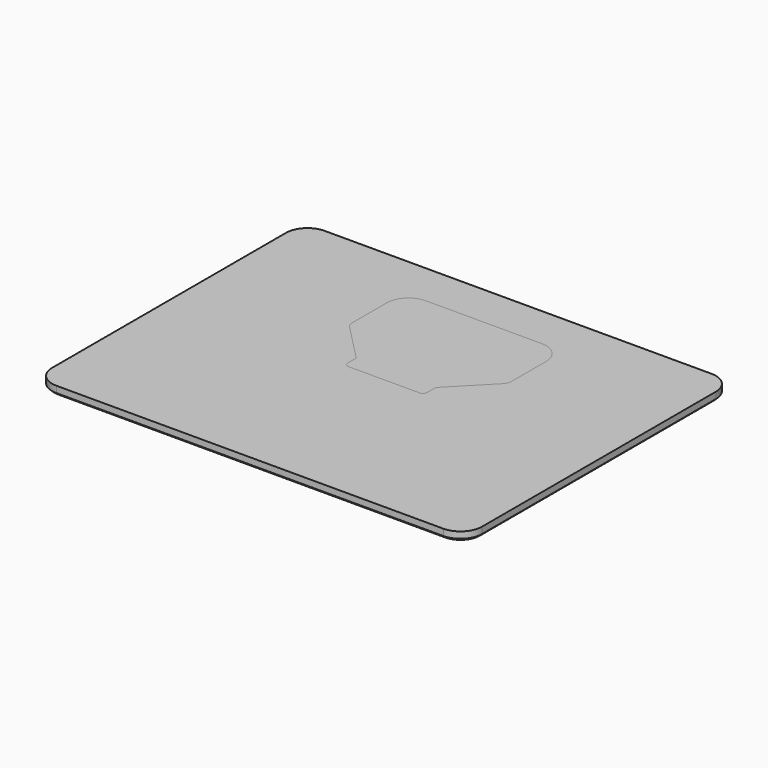
from build123d import *

# Parameters (mm, degrees)
SKETCH_W        = 100
SKETCH_H        = 78
PAD_DEPTH       = 2
FILLET_R        = 5
CHAMFER_SIZE    = 0.5
PAD001_DEPTH    = 2
FILLET001_R     = 1
CHAMFER001_SIZE = 0.5


with BuildPart() as base:
    # Sketch → Pad (new body)
    with BuildSketch(Plane.XY):
        Rectangle(SKETCH_W, SKETCH_H)
    extrude(amount=PAD_DEPTH)

    # Fillet
    fillet_edges = [base.edges().sort_by_distance(p)[0] for p in [
        (50, 39, 1),
        (50, -39, 1),
        (-50, -39, 1),
        (-50, 39, 1),
    ]]
    fillet(fillet_edges, radius=FILLET_R)

    # Chamfer
    chamfer_edges = [base.edges().sort_by_distance(p)[0] for p in [
        (0, -39, 0),
        (-50, 0, 0),
        (0, 39, 0),
        (50, 0, 0),
    ]]
    chamfer(chamfer_edges, length=CHAMFER_SIZE)


with BuildPart() as foot:
    # Sketch001 → Pad001 (new body)
    with BuildSketch(Plane.XY):
        with BuildLine():
            Line((-13.5, 29), (13.5, 29))
            ThreePointArc((18.5, 24), (17.035534, 27.535534), (13.5, 29))
            Line((18.5, 24), (18.5, 14))
            ThreePointArc((17.789579, 12.254318), (18.315594, 13.057649), (18.5, 14))
            Line((17.789579, 12.254318), (9.25, 3.5))
            Line((9.25, 0), (9.25, 3.5))
            Line((-9.25, 0), (9.25, 0))
            Line((-9.25, 3.5), (-9.25, 0))
            Line((-9.25, 3.5), (-17.789579, 12.254318))
            ThreePointArc((-18.5, 14), (-18.315594, 13.057649), (-17.789579, 12.254318))
            Line((-18.5, 14), (-18.5, 24))
            ThreePointArc((-13.5, 29), (-17.035534, 27.535534), (-18.5, 24))
        make_face()
    extrude(amount=PAD001_DEPTH)

    # Fillet001
    fillet001_edges = [foot.edges().sort_by_distance(p)[0] for p in [
        (-9.25, 0, 1),
        (9.25, 0, 1),
    ]]
    fillet(fillet001_edges, radius=FILLET001_R)

    # Chamfer001
    chamfer001_edges = [foot.edges().sort_by_distance(p)[0] for p in [
        (-13.51979, 7.877159, 0),
        (0, 0, 0),
        (-8.957107, 0.292893, 0),
        (-9.25, 2.25, 0),
        (-18.5, 19, 0),
        (-18.315594, 13.057649, 0),
        (-17.035534, 27.535534, 0),
        (0, 29, 0),
        (17.035534, 27.535534, 0),
        (18.5, 19, 0),
        (18.315594, 13.057649, 0),
        (13.51979, 7.877159, 0),
        (9.25, 2.25, 0),
        (8.957107, 0.292893, 0),
    ]]
    chamfer(chamfer001_edges, length=CHAMFER001_SIZE)


solid = Compound([base.part, foot.part])
